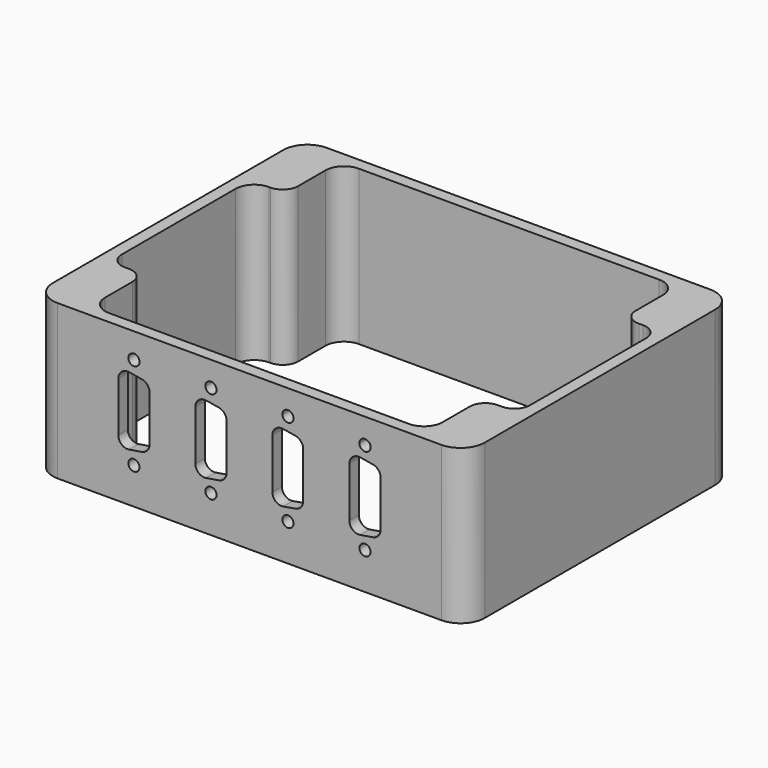
from build123d import *

# Parameters (mm, degrees)
F1_DEPTH = 41.5
F2_R     = 1.5
F3_DEPTH = 103


with BuildPart() as f1:
    # F0 (on Top) → F1 (new body)
    with BuildSketch(Plane.XY):
        with BuildLine():
            Line((51.7, 45.2), (-51.4, 45.2))
            ThreePointArc((-51.4, 45.2), (-55.9961940777, 43.2961940777), (-57.9, 38.7))
            Line((-57.9, 38.7), (-57.9, -38.7))
            ThreePointArc((-57.9, -38.7), (-55.9961940777, -43.2961940777), (-51.4, -45.2))
            Line((-51.4, -45.2), (51.7, -45.2))
            ThreePointArc((51.7, -45.2), (56.2961940777, -43.2961940777), (58.2, -38.7))
            Line((58.2, -38.7), (58.2, 38.7))
            ThreePointArc((58.2, 38.7), (56.2961940777, 43.2961940777), (51.7, 45.2))
        make_face()
        with BuildLine():
            Line((-54.7, -19.5394540004), (-54.7, 18.7))
            ThreePointArc((-54.7, 18.7), (-53.2355339059, 22.2355339059), (-49.7, 23.7))
            Line((-49.7, 23.7), (-49.3605459996, 23.7))
            ThreePointArc((-49.3605459996, 23.7), (-46.4185957098, 24.9185957098), (-45.2, 27.8605459996))
            Line((-45.2, 27.8605459996), (-45.2, 37))
            ThreePointArc((-45.2, 37), (-43.7355339059, 40.5355339059), (-40.2, 42))
            Line((-40.2, 42), (40.5, 42))
            ThreePointArc((40.5, 42), (44.0355339059, 40.5355339059), (45.5, 37))
            Line((45.5, 37), (45.5, 27.8605459996))
            ThreePointArc((45.5, 27.8605459996), (46.7185957098, 24.9185957098), (49.6605459996, 23.7))
            Line((49.6605459996, 23.7), (50.8394540004, 23.7))
            ThreePointArc((50.8394540004, 23.7), (53.7814042902, 22.4814042902), (55, 19.5394540004))
            Line((55, 19.5394540004), (55, -19.5394540004))
            ThreePointArc((55, -19.5394540004), (53.7814042902, -22.4814042902), (50.8394540004, -23.7))
            Line((50.8394540004, -23.7), (49.6605459996, -23.7))
            ThreePointArc((49.6605459996, -23.7), (46.7185957098, -24.9185957098), (45.5, -27.8605459996))
            Line((45.5, -27.8605459996), (45.5, -37))
            ThreePointArc((45.5, -37), (44.0355339059, -40.5355339059), (40.5, -42))
            Line((40.5, -42), (-40.2, -42))
            ThreePointArc((-40.2, -42), (-43.7355339059, -40.5355339059), (-45.2, -37))
            Line((-45.2, -37), (-45.2, -27.8605459996))
            ThreePointArc((-45.2, -27.8605459996), (-46.4185957098, -24.9185957098), (-49.3605459996, -23.7))
            Line((-49.3605459996, -23.7), (-50.5394540004, -23.7))
            ThreePointArc((-50.5394540004, -23.7), (-53.4814042902, -22.4814042902), (-54.7, -19.5394540004))
        make_face(mode=Mode.SUBTRACT)
    extrude(amount=F1_DEPTH)

    # F2 (on Front) → F3 (cut)
    with BuildSketch(Plane.XZ):
        with Locations((-30.9, 34.73)):
            Circle(F2_R)
        with BuildLine():
            ThreePointArc((32.7, 34.7302867395), (31.1998566303, 36.2302867326), (29.7000000274, 34.73))
            Line((29.7000000274, 34.73), (32.6999999726, 34.73))
            ThreePointArc((32.6999999726, 34.73), (32.6999999931, 34.7301433697), (32.7, 34.7302867395))
        make_face()
        with BuildLine():
            Line((32.6999999726, 34.73), (29.7000000274, 34.73))
            ThreePointArc((29.7000000274, 34.73), (31.2, 33.2302867395), (32.6999999726, 34.73))
        make_face()
        with BuildLine():
            ThreePointArc((12, 34.8408361703), (10.4445440024, 36.3398106972), (9.0041004902, 34.73))
            Line((9.0041004902, 34.73), (11.9958995098, 34.73))
            ThreePointArc((11.9958995098, 34.73), (11.9989745269, 34.7853801727), (12, 34.8408361703))
        make_face()
        with BuildLine():
            Line((11.9958995098, 34.73), (9.0041004902, 34.73))
            ThreePointArc((9.0041004902, 34.73), (10.5, 33.3408361703), (11.9958995098, 34.73))
        make_face()
        with BuildLine():
            ThreePointArc((-8.7, 34.8408361703), (-10.2554559976, 36.3398106972), (-11.6958995098, 34.73))
            Line((-11.6958995098, 34.73), (-8.7041004902, 34.73))
            ThreePointArc((-8.7041004902, 34.73), (-8.7010254731, 34.7853801727), (-8.7, 34.8408361703))
        make_face()
        with BuildLine():
            Line((-8.7041004902, 34.73), (-11.6958995098, 34.73))
            ThreePointArc((-11.6958995098, 34.73), (-10.2, 33.3408361703), (-8.7041004902, 34.73))
        make_face()
        with Locations((-30.9, 9.8)):
            Circle(F2_R)
        with Locations((31.2, 9.9408361703)):
            Circle(F2_R)
        with Locations((10.5, 9.9408361703)):
            Circle(F2_R)
        with Locations((-10.2, 9.9408361703)):
            Circle(F2_R)
        with BuildLine():
            Line((-35.1, 28.9438347778), (-35.1, 15.5561652222))
            ThreePointArc((-35.1, 15.5561652222), (-34.2195334956, 13.6516675833), (-32.1983109948, 13.0886470474))
            Line((-32.1983109948, 13.0886470474), (-28.7983109948, 13.6421354195))
            ThreePointArc((-28.7983109948, 13.6421354195), (-27.2955023611, 14.4901200986), (-26.7, 16.1096535943))
            Line((-26.7, 16.1096535943), (-26.7, 28.3903464057))
            ThreePointArc((-26.7, 28.3903464057), (-27.2955023611, 30.0098799014), (-28.7983109948, 30.8578645805))
            Line((-28.7983109948, 30.8578645805), (-32.1983109948, 31.4113529526))
            ThreePointArc((-32.1983109948, 31.4113529526), (-34.2195334956, 30.8483324167), (-35.1, 28.9438347778))
        make_face()
        with BuildLine():
            Line((-14.4, 28.9788489457), (-14.4, 15.5511510543))
            ThreePointArc((-14.4, 15.5511510543), (-13.5159372403, 13.6436010981), (-11.4890025317, 13.0851662447))
            Line((-11.4890025317, 13.0851662447), (-8.0890025317, 13.6518329114))
            ThreePointArc((-8.0890025317, 13.6518329114), (-6.5924500438, 14.5018804806), (-6, 16.117817721))
            Line((-6, 16.117817721), (-6, 28.412182279))
            ThreePointArc((-6, 28.412182279), (-6.5924500438, 30.0281195194), (-8.0890025317, 30.8781670886))
            Line((-8.0890025317, 30.8781670886), (-11.4890025317, 31.4448337553))
            ThreePointArc((-11.4890025317, 31.4448337553), (-13.5159372403, 30.8863989019), (-14.4, 28.9788489457))
        make_face()
        with BuildLine():
            Line((6.3, 28.9729987336), (6.3, 15.5570012664))
            ThreePointArc((6.3, 15.5570012664), (7.1859263693, 13.6478741584), (9.2158130517, 13.0918238882))
            Line((9.2158130517, 13.0918238882), (12.5158130517, 13.6484503943))
            ThreePointArc((12.5158130517, 13.6484503943), (14.009127108, 14.4995541418), (14.6, 16.1136277725))
            Line((14.6, 16.1136277725), (14.6, 28.4163722275))
            ThreePointArc((14.6, 28.4163722275), (14.009127108, 30.0304458582), (12.5158130517, 30.8815496057))
            Line((12.5158130517, 30.8815496057), (9.2158130517, 31.4381761118))
            ThreePointArc((9.2158130517, 31.4381761118), (7.1859263693, 30.8821258416), (6.3, 28.9729987336))
        make_face()
        with BuildLine():
            Line((27, 28.9788489457), (27, 15.5511510543))
            ThreePointArc((27, 15.5511510543), (27.8840627597, 13.6436010981), (29.9109974683, 13.0851662447))
            Line((29.9109974683, 13.0851662447), (33.3109974683, 13.6518329114))
            ThreePointArc((33.3109974683, 13.6518329114), (34.8075499562, 14.5018804806), (35.4, 16.117817721))
            Line((35.4, 16.117817721), (35.4, 28.412182279))
            ThreePointArc((35.4, 28.412182279), (34.8075499562, 30.0281195194), (33.3109974683, 30.8781670886))
            Line((33.3109974683, 30.8781670886), (29.9109974683, 31.4448337553))
            ThreePointArc((29.9109974683, 31.4448337553), (27.8840627597, 30.8863989019), (27, 28.9788489457))
        make_face()
    extrude(amount=F3_DEPTH, mode=Mode.SUBTRACT)


solid = f1.part
